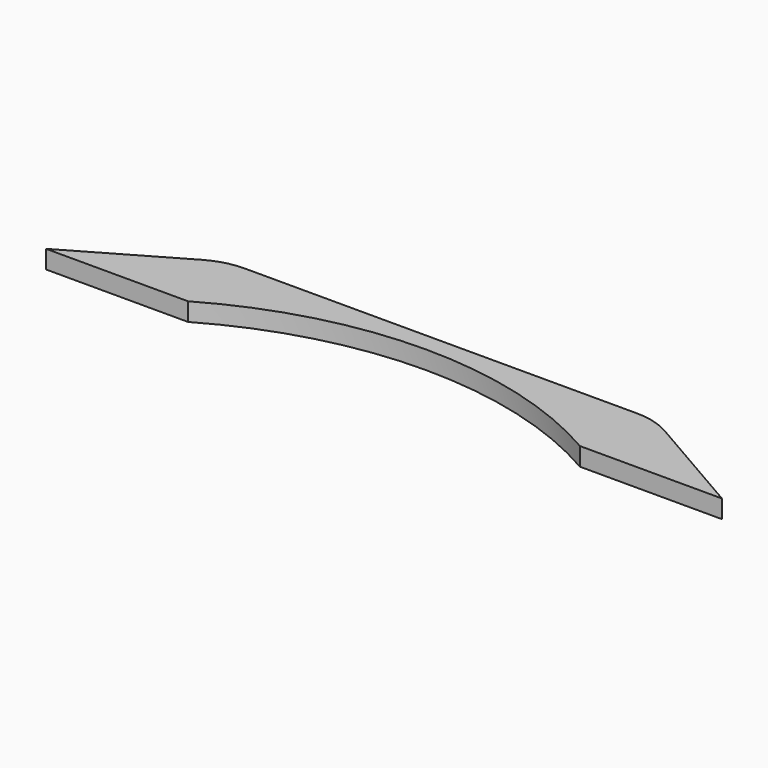
from build123d import *

# Parameters (mm, degrees)
F1_DEPTH = 5


with BuildPart() as f1:
    # F0 (on Top) → F1 (new body)
    with BuildSketch(Plane.XY):
        Polygon((-92.8162193303, -9.75), (-53.8162193302, -9.75), (-63.5662193303, 7.1374953738), align=None)
        with BuildLine():
            Line((-63.5662193303, 7.1374953738), (-53.8162193303, -9.75))
            Line((-53.8162193303, -9.75), (-53.8162193303, 9.75))
            ThreePointArc((-53.8162193303, 9.75), (-58.8631907097, 9.0855536126), (-63.5662193303, 7.1374953738))
        make_face()
        with BuildLine():
            Line((-53.8162193303, 9.75), (-53.8162193303, -9.75))
            ThreePointArc((-53.8162193303, -9.75), (-53.3700027957, 0.0405892766), (-52.0350529909, 9.75))
            Line((-52.0350529909, 9.75), (-53.8162193303, 9.75))
        make_face()
        with BuildLine():
            ThreePointArc((-53.8162193302, -9.75), (0, 4.6700125092), (53.8162193302, -9.75))
            ThreePointArc((53.8162193303, -9.75), (53.3700027957, 0.0405892766), (52.0350529909, 9.75))
            Line((52.0350529909, 9.75), (-52.0350529909, 9.75))
            ThreePointArc((-52.0350529909, 9.75), (-53.3700027957, 0.0405892766), (-53.8162193303, -9.75))
        make_face()
        with BuildLine():
            ThreePointArc((52.0350529909, 9.75), (53.3700027957, 0.0405892766), (53.8162193303, -9.75))
            Line((53.8162193303, -9.75), (53.8162193303, 9.75))
            Line((53.8162193303, 9.75), (52.0350529909, 9.75))
        make_face()
        with BuildLine():
            Line((53.8162193303, 9.75), (53.8162193303, -9.75))
            Line((53.8162193303, -9.75), (63.5662193303, 7.1374953738))
            ThreePointArc((63.5662193303, 7.1374953738), (58.8631907097, 9.0855536126), (53.8162193303, 9.75))
        make_face()
        Polygon((63.5662193303, 7.1374953738), (53.8162193303, -9.75), (92.8162193303, -9.75), align=None)
    extrude(amount=F1_DEPTH)


solid = f1.part
